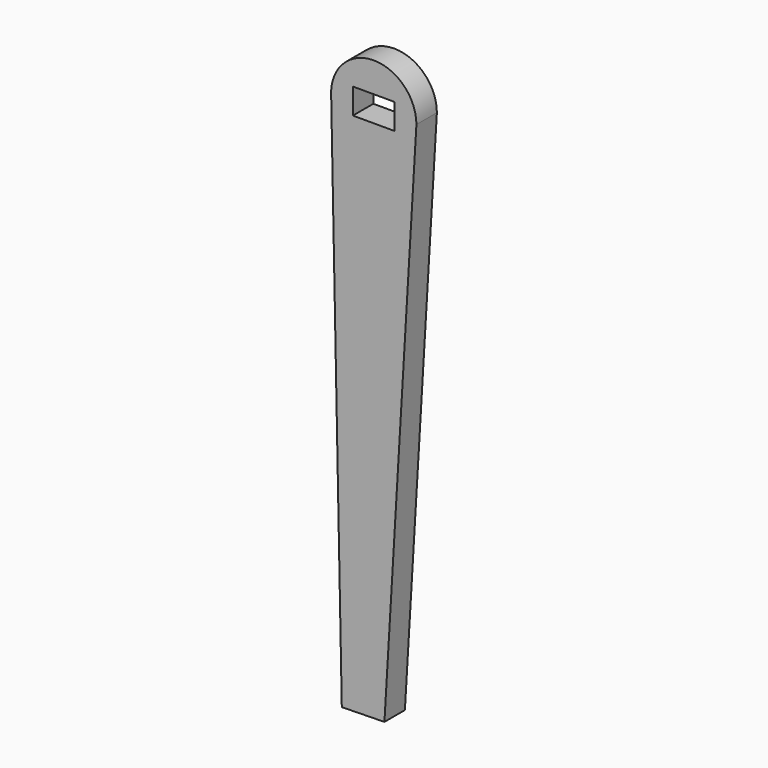
from build123d import *

# Parameters (mm, degrees)
F1_DEPTH = 3
F2_W     = 4.9
F2_H     = 3
F3_DEPTH = 25


with BuildPart() as f1:
    # F0 (on Front) → F1 (new body)
    with BuildSketch(Plane.XZ):
        with BuildLine():
            Line((-5, 0), (-4.851479, 1.209609))
            ThreePointArc((-4.851479, 1.209609), (-4.962731, 0.609347), (-5, 0))
        make_face()
        with BuildLine():
            Line((-5, 0), (5, 0))
            ThreePointArc((5, 0), (0.609347, 4.962731), (-4.851479, 1.209609))
            Line((-4.851479, 1.209609), (-5, 0))
        make_face()
        Polygon((1.25, -62.888294), (5, 0), (-5, 0), (-3.749014, -62.987578), align=None)
    extrude(amount=F1_DEPTH)

    # F2 (on Front) → F3 (cut)
    with BuildSketch(Plane.XZ):
        Rectangle(F2_W, F2_H)
    extrude(amount=F3_DEPTH, mode=Mode.SUBTRACT)


solid = f1.part
